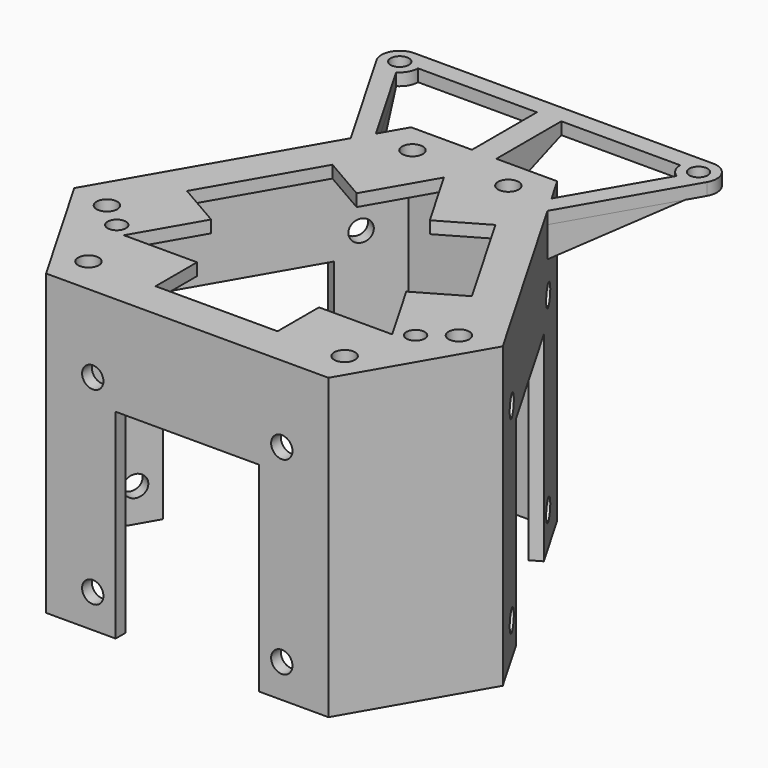
from build123d import *

# Parameters (mm, degrees)
PAD_DEPTH       = 47
SKETCH002_R     = 1.7
SKETCH002_R_2   = 1.5
PAD001_DEPTH    = 2
PAD002_DEPTH    = 2
SKETCH004_R     = 1.75
SKETCH004_W     = 23.5
SKETCH004_H     = 32.75
POCKET_DEPTH    = 2
SKETCH005_R     = 1.75
SKETCH005_W     = 23.5
SKETCH005_H     = 32.75
POCKET001_DEPTH = 2
SKETCH006_R     = 1.75
SKETCH006_W     = 23.5
SKETCH006_H     = 32.75
POCKET002_DEPTH = 2
SKETCH007_W     = 4
SKETCH007_H     = 13.3147552139
PAD003_DEPTH    = 2
PAD004_DEPTH    = 3
PAD005_DEPTH    = 3
PAD006_DEPTH    = 4


with BuildPart() as part:
    # Sketch (on XY_Plane of Origin) → Pad (new body)
    with BuildSketch(Plane.XY):
        Polygon((-11.9800180857, 33.6534118443), (11.9800180857, 33.6534118443), (35.1347186241, -6.4517059222), (23.1547005384, -27.2017059222), (-23.1547005384, -27.2017059222), (-35.1347186241, -6.4517059222), align=None)
        Polygon((-10.8253175473, 31.6534118443), (10.8253175473, 31.6534118443), (32.8253175473, -6.4517059222), (22, -25.2017059222), (-22, -25.2017059222), (-32.8253175473, -6.4517059222), align=None, mode=Mode.SUBTRACT)
    extrude(amount=-PAD_DEPTH)

    # Sketch002 (on Face13 of Pad) → Pad001 (join)
    with BuildSketch(Plane.XY):
        with BuildLine():
            ThreePointArc((-22.9999999997, 44.3700908485), (-21.9019237891, 45.4681670596), (-21.5000000007, 46.9681670589))
            Line((-21.5000000007, 46.9681670582), (21.5, 46.9681670582))
            ThreePointArc((21.5, 46.9681670589), (26.6212972707, 44.8468236428), (24.5000652595, 49.9681670582))
            Line((24.5000652595, 49.9681670582), (-24.5, 49.9681670582))
            ThreePointArc((-24.5, 49.9681670582), (-27.0980762107, 48.4681670586), (-27.0980762107, 45.4681670593))
            Line((-27.0980762107, 45.4681670593), (-16.1284210963, 26.4681670596))
            Line((-16.1284210963, 26.4681670596), (-35.1347186241, -6.4517059222))
            Line((-35.1347186241, -6.4517059222), (-23.1547005384, -27.2017059222))
            Line((-23.1547005384, -27.2017059222), (23.1547005384, -27.2017059222))
            Line((23.1547005384, -27.2017059222), (35.1347186241, -6.4517059222))
            Line((35.1347186241, -6.4517059222), (11.9800180857, 33.6534118443))
            Line((11.9800180857, 33.6534118443), (-11.9800180857, 33.6534118443))
            Line((-11.9800180857, 33.6534118443), (-14.3963702888, 29.4681670596))
            Line((-14.3963702888, 29.4681670596), (-22.9999999997, 44.3700908485))
        make_face()
        Polygon((6, 15.0111069989), (0, 25.4034118443), (-6, 15.0111069989), (-13.3612159322, 19.2611069989), (-23.3612159322, 1.9405989232), (-16, -2.3094010768), (-22, -12.7017059222), (-10, -12.7017059222), (-10, -21.2017059222), (10, -21.2017059222), (10, -12.7017059222), (22, -12.7017059222), (16, -2.3094010768), (23.3612159322, 1.9405989232), (13.3612159322, 19.2611069989), align=None, mode=Mode.SUBTRACT)
        with Locations((-7.8612159322, 28.7873864406)):
            Circle(SKETCH002_R, mode=Mode.SUBTRACT)
        with Locations((-28.8612159322, -7.5856805184)):
            Circle(SKETCH002_R, mode=Mode.SUBTRACT)
        with Locations((7.8612159322, 28.7873864406)):
            Circle(SKETCH002_R, mode=Mode.SUBTRACT)
        with Locations((28.8612159322, -7.5856805184)):
            Circle(SKETCH002_R, mode=Mode.SUBTRACT)
        with Locations((-21, -21.2017059222)):
            Circle(SKETCH002_R, mode=Mode.SUBTRACT)
        with Locations((21, -21.2017059222)):
            Circle(SKETCH002_R, mode=Mode.SUBTRACT)
        with Locations((24.5, 46.9681670589)):
            Circle(SKETCH002_R_2, mode=Mode.SUBTRACT)
        with Locations((-24.5, -11.0318329411)):
            Circle(SKETCH002_R_2, mode=Mode.SUBTRACT)
        with Locations((24.5, -11.0318329411)):
            Circle(SKETCH002_R_2, mode=Mode.SUBTRACT)
        with Locations((-24.5, 46.9681670589)):
            Circle(SKETCH002_R_2, mode=Mode.SUBTRACT)
    extrude(amount=PAD001_DEPTH)

    # Sketch003 (on Face9 of Pad001) → Pad002 (join)
    with BuildSketch(Plane(origin=(0, 0, 0), x_dir=(1, 0, 0), z_dir=(0, 0, -1))):
        Polygon((16.1284210968, -26.4681670589), (27.0980762114, -45.4681670589), (23, -44.3700908476), (14.3963702892, -29.4681670589), align=None)
    extrude(amount=-PAD002_DEPTH)

    # Sketch004 (on Face5 of Pad002) → Pocket (cut)
    with BuildSketch(Plane.XZ.offset(27.2017059222)):
        with Locations((15.5, -10.5)):
            Circle(SKETCH004_R)
        with Locations((-15.5, -10.5)):
            Circle(SKETCH004_R)
        with Locations((-15.5, -41.5)):
            Circle(SKETCH004_R)
        with Locations((15.5, -41.5)):
            Circle(SKETCH004_R)
        with Locations((0, -30.625)):
            Rectangle(SKETCH004_W, SKETCH004_H)
    extrude(amount=-POCKET_DEPTH, mode=Mode.SUBTRACT)

    # Sketch005 (on Face3 of Pocket) → Pocket001 (cut)
    with BuildSketch(Plane(origin=(23.5573683549, 13.6008529611, 0), x_dir=(-0.5, 0.8660254038, 0), z_dir=(0.8660254038, 0.5, 0))):
        with Locations((15.5, -10.5)):
            Circle(SKETCH005_R)
        with Locations((-15.5, -10.5)):
            Circle(SKETCH005_R)
        with Locations((-15.5, -41.5)):
            Circle(SKETCH005_R)
        with Locations((15.5, -41.5)):
            Circle(SKETCH005_R)
        with Locations((0, -30.625)):
            Rectangle(SKETCH005_W, SKETCH005_H)
    extrude(amount=-POCKET001_DEPTH, mode=Mode.SUBTRACT)

    # Sketch006 (on Face13 of Pocket001) → Pocket002 (cut)
    with BuildSketch(Plane(origin=(-23.5573683549, 13.6008529611, 0), x_dir=(-0.5, -0.8660254038, 0), z_dir=(-0.8660254038, 0.5, 0))):
        with Locations((15.5, -10.5)):
            Circle(SKETCH006_R)
        with Locations((-15.5, -10.5)):
            Circle(SKETCH006_R)
        with Locations((-15.5, -41.5)):
            Circle(SKETCH006_R)
        with Locations((15.5, -41.5)):
            Circle(SKETCH006_R)
        with Locations((0, -30.625)):
            Rectangle(SKETCH006_W, SKETCH006_H)
    extrude(amount=-POCKET002_DEPTH, mode=Mode.SUBTRACT)

    # Sketch007 (on Face10 of Pocket002) → Pad003 (join)
    with BuildSketch(Plane.XY.offset(2)):
        with Locations((0, 40.3107894513)):
            Rectangle(SKETCH007_W, SKETCH007_H)
    extrude(amount=-PAD003_DEPTH)

    # Sketch008 (on Face17 of Pad003) → Pad004 (join)
    with BuildSketch(Plane(origin=(-1.9628129211, 1.1332305684, 0), x_dir=(-0.5, -0.8660254038, 0), z_dir=(-0.8660254038, 0.5, 0))):
        Polygon((-49.9256258422, 0), (-30.986315613, 0), (-30.986315613, -5), align=None)
    extrude(amount=-PAD004_DEPTH)

    # Sketch009 (on Face34 of Pad004) → Pad005 (join)
    with BuildSketch(Plane(origin=(1.9628129217, 1.1332305687, 0), x_dir=(-0.5, 0.8660254038, 0), z_dir=(0.8660254038, 0.5, 0))):
        Polygon((49.9256258429, 0), (30.9863156134, 0), (30.9863156134, -5), align=None)
    extrude(amount=-PAD005_DEPTH)

    # Sketch010 (on Face13 of Pad005) → Pad006 (join)
    with BuildSketch(Plane(origin=(-2, 0, 0), x_dir=(0, -1, 0), z_dir=(-1, 0, 0))):
        Polygon((-46.9681670582, 0), (-33.6534118443, 0), (-33.6534118443, -5), align=None)
    extrude(amount=-PAD006_DEPTH)


solid = part.part
